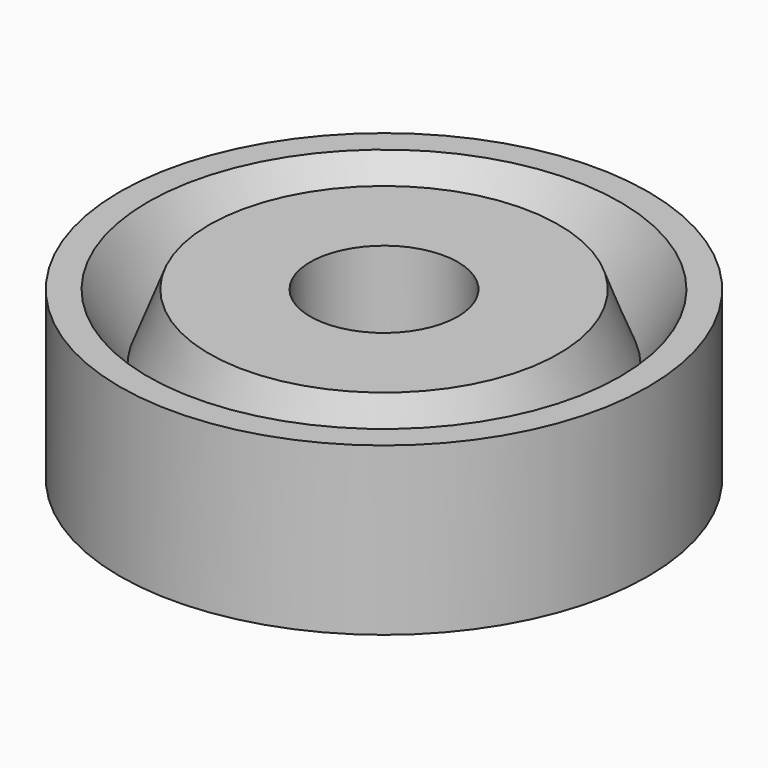
from build123d import *

# Parameters (mm, degrees)
F0_W = 328.625083
F0_H = 287.938144


with BuildPart() as f1:
    # F0 (on Front) → F1 (revolve)
    with BuildSketch(Plane.XZ):
        with Locations((291.749984, -28.753595)):
            Rectangle(F0_W, F0_H)
    revolve(axis=Axis((0, 0, 98.294653), (0, 0, 1)))

    # F2 (on Front) → F3 (revolve, cut)
    with BuildSketch(Plane.XZ):
        Polygon((-256.390119, 233.077794), (-471.141994, 233.077794), (-346.019059, 0), align=None)
    revolve(axis=Axis((0, 0, 98.294653), (0, 0, 1)), mode=Mode.SUBTRACT)


solid = f1.part
